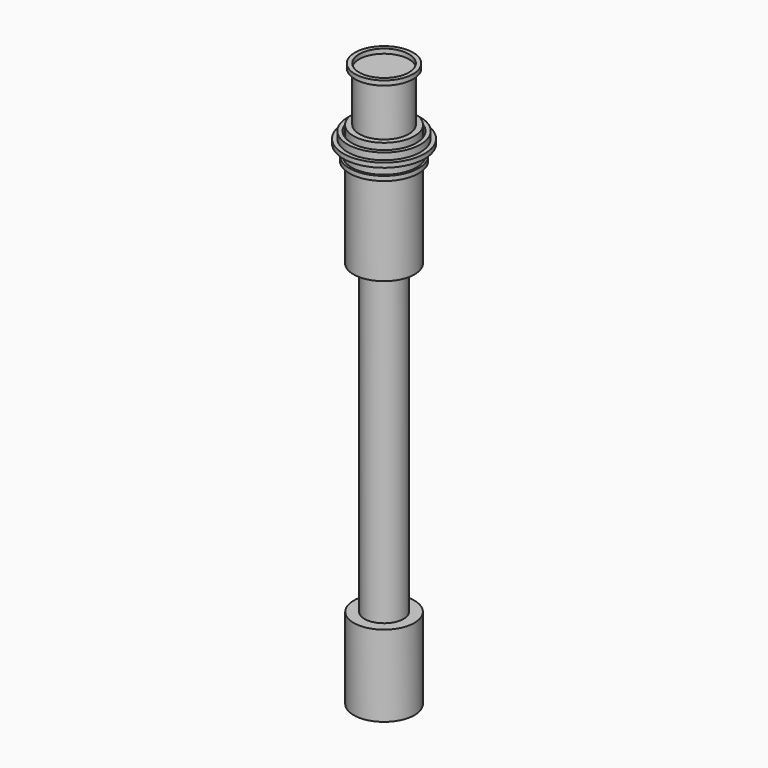
from build123d import *

# Parameters (mm, degrees)
F0_R      = 17.0757771847
F1_DEPTH  = 45.72
F2_R      = 10.9916576932
F3_DEPTH  = 172.72
F5_R      = 17.1521725586
F6_DEPTH  = 50.8
F7_R      = 19.4388820388
F7_R_2    = 17.1521725586
F8_DEPTH  = 2.54
F9_R      = 18.252412193
F9_R_2    = 17.1521725586
F10_DEPTH = 5.842
F11_R     = 22.8931655333
F11_R_2   = 18.252412193
F12_DEPTH = 2.54
F13_R     = 20.551318228
F13_R_2   = 18.252412193
F14_DEPTH = 3.81
F15_DEPTH = 17.78
F17_R     = 13.9919168475
F18_DEPTH = 27.94
F19_R     = 16.3783467145
F19_R_2   = 13.9919168475
F20_DEPTH = 2.54


with BuildPart() as f1:
    # F0 (on Top) → F1 (new body)
    with BuildSketch(Plane.XY):
        Circle(F0_R)
    extrude(amount=F1_DEPTH)

    # F2 (on face) → F3 (join)
    with BuildSketch(Plane.XY.offset(45.72)):
        Circle(F2_R)
    extrude(amount=F3_DEPTH)

    # F5 (on offset) → F6 (join)
    with BuildSketch(Plane.XY.offset(218.44)):
        Circle(F5_R)
    extrude(amount=F6_DEPTH)


with BuildPart() as f8:
    # F7 (on face) → F8 (new body)
    with BuildSketch(Plane.XY.offset(269.24)):
        Circle(F7_R)
        Circle(F7_R_2, mode=Mode.SUBTRACT)
    extrude(amount=F8_DEPTH)

    # F9 (on face) → F10 (join)
    with BuildSketch(Plane.XY.offset(271.78)):
        Circle(F9_R)
        Circle(F9_R_2, mode=Mode.SUBTRACT)
    extrude(amount=F10_DEPTH)


with BuildPart() as f12:
    # F11 (on face) → F12 (new body)
    with BuildSketch(Plane.XY.offset(277.622)):
        Circle(F11_R)
        Circle(F11_R_2, mode=Mode.SUBTRACT)
    extrude(amount=F12_DEPTH)

    # F13 (on face) → F14 (join)
    with BuildSketch(Plane.XY.offset(280.162)):
        Circle(F13_R)
        Circle(F13_R_2, mode=Mode.SUBTRACT)
    extrude(amount=F14_DEPTH)


with BuildPart() as f15:
    # F15 (new): a face of the model
    f15_faces = [f1.part.faces().sort_by_distance(p)[0] for p in [
        (0, 0, 269.24),
    ]]
    extrude(f15_faces, amount=F15_DEPTH)

    # F17 (on face) → F18 (join)
    with BuildSketch(Plane.XY.offset(287.02)):
        Circle(F17_R)
    extrude(amount=F18_DEPTH)


with BuildPart() as f20:
    # F19 (on face) → F20 (new body)
    with BuildSketch(Plane.XY.offset(314.96)):
        Circle(F19_R)
        Circle(F19_R_2, mode=Mode.SUBTRACT)
    extrude(amount=F20_DEPTH)


solid = Compound([f1.part, f8.part, f12.part, f15.part, f20.part])
